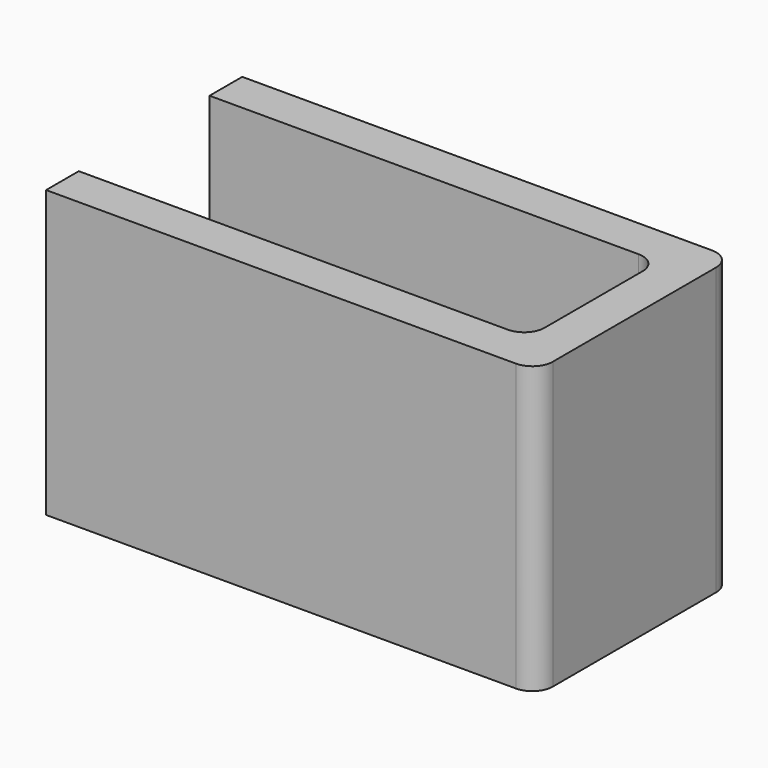
from build123d import *

# Parameters (mm, degrees)
F1_DEPTH = 70
F2_R     = 4
F3_DEPTH = 50


with BuildPart() as f1:
    # F0 (on Top) → F1 (new body)
    with BuildSketch(Plane.XY):
        with BuildLine():
            Line((53.26148, 34.026845), (-61.73852, 34.026845))
            Line((-61.73852, 34.026845), (-61.73852, 24.026845))
            Line((-61.73852, 24.026845), (43.26148, 24.026845))
            ThreePointArc((43.26148, 24.026845), (46.797014, 22.562379), (48.26148, 19.026845))
            Line((48.26148, 19.026845), (48.26148, -10.973155))
            ThreePointArc((48.26148, -10.973155), (46.797014, -14.508688), (43.26148, -15.973155))
            Line((43.26148, -15.973155), (-61.73852, -15.973155))
            Line((-61.73852, -15.973155), (-61.73852, -25.973155))
            Line((-61.73852, -25.973155), (53.26148, -25.973155))
            ThreePointArc((53.26148, -25.973155), (56.797014, -24.508688), (58.26148, -20.973155))
            Line((58.26148, -20.973155), (58.26148, 29.026845))
            ThreePointArc((58.26148, 29.026845), (56.797014, 32.562379), (53.26148, 34.026845))
        make_face()
    extrude(amount=F1_DEPTH)

    # F2 (on face) → F3 (join, through all)
    with BuildSketch(Plane.XZ.offset(25.973155)):
        with Locations((-4.23852, 35)):
            Circle(F2_R)
    extrude(amount=-F3_DEPTH)


solid = f1.part
